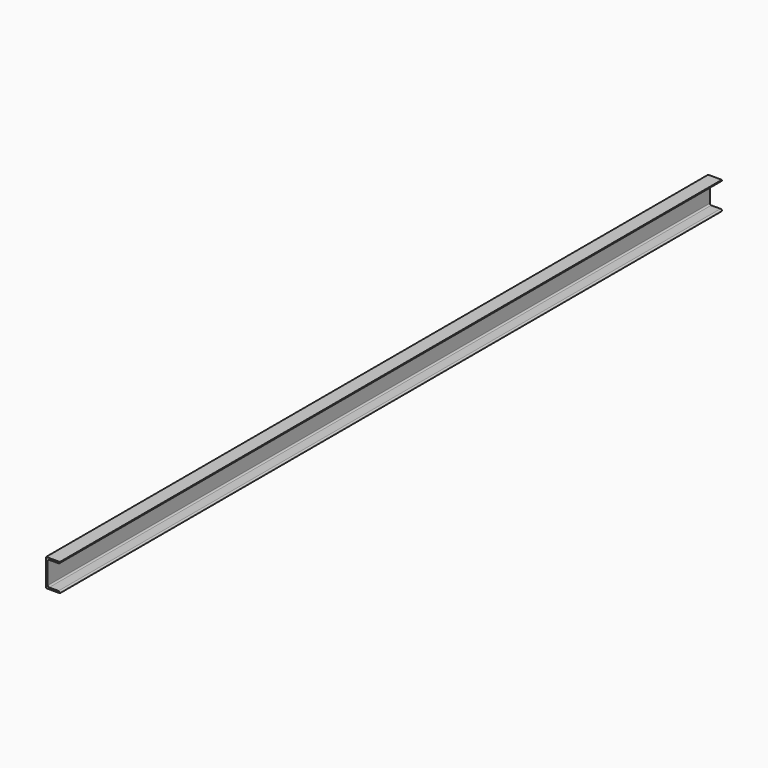
from build123d import *

# Parameters (mm, degrees)
F1_DEPTH = 3000


with BuildPart() as f1:
    # F0 (on Front) → F1 (new body)
    with BuildSketch(Plane.XZ):
        with BuildLine():
            Line((-25, -50), (25, -50))
            Line((25, -50), (25, -49))
            ThreePointArc((25, -49), (23.535534, -45.464466), (20, -44))
            Line((20, -44), (-14, -44))
            ThreePointArc((-14, -44), (-17.535534, -42.535534), (-19, -39))
            Line((-19, -39), (-19, 39))
            ThreePointArc((-19, 39), (-17.535534, 42.535534), (-14, 44))
            Line((-14, 44), (20, 44))
            ThreePointArc((20, 44), (23.535534, 45.464466), (25, 49))
            Line((25, 49), (25, 50))
            Line((25, 50), (-25, 50))
            Line((-25, 50), (-25, -50))
        make_face()
    extrude(amount=F1_DEPTH)


solid = f1.part
